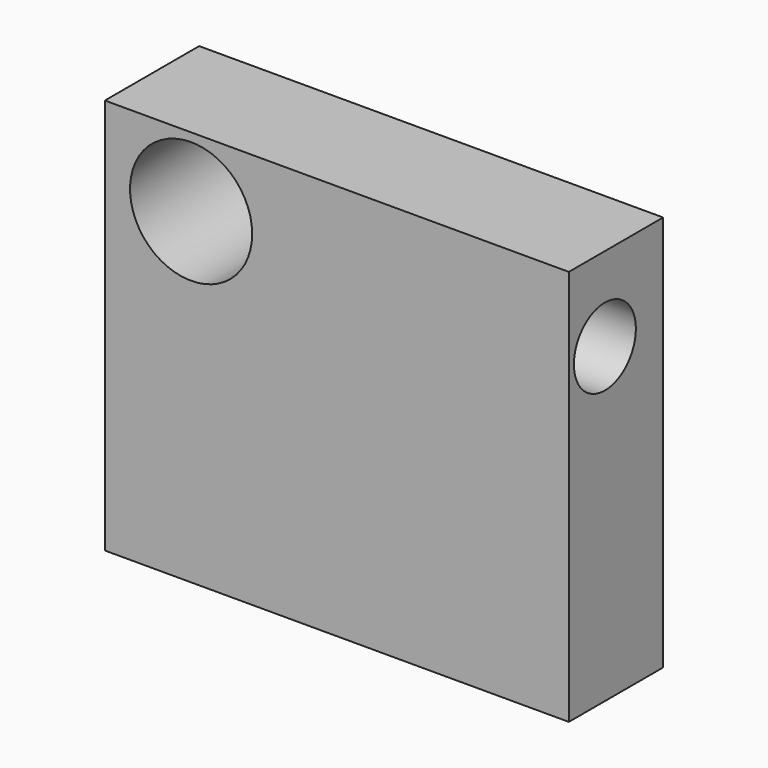
from build123d import *

# Parameters (mm, degrees)
F0_W     = 100
F0_H     = 85.3913038855
F1_DEPTH = 25.4
F2_R     = 13.1600821693
F3_DEPTH = 25.4
F4_R     = 8.3492682179
F5_DEPTH = 25.4
F6_DEPTH = 25.4
F7_DEPTH = 25.4


with BuildPart() as f1:
    # F0 (on Front) → F1 (new body)
    with BuildSketch(Plane.XZ):
        with Locations((50, 42.6956519428)):
            Rectangle(F0_W, F0_H)
    extrude(amount=F1_DEPTH)

    # F2 (on face) → F3 (cut)
    with BuildSketch(Plane.XZ.offset(25.4)):
        with Locations((18.5836926103, 70.3844353557)):
            Circle(F2_R)
    extrude(amount=-F3_DEPTH, mode=Mode.SUBTRACT)

    # F4 (on face) → F5 (cut)
    with BuildSketch(Plane.YZ.offset(100)):
        with Locations((-15.6908016652, 67.2837793827)):
            Circle(F4_R)
    extrude(amount=-F5_DEPTH, mode=Mode.SUBTRACT)

    # F6 (cut): a face of the model
    f6_faces = [f1.faces().sort_by_distance(p)[0] for p in [
        (74.6, -15.6908016652, 67.2837793827),
    ]]
    extrude(f6_faces, amount=-F6_DEPTH, mode=Mode.SUBTRACT)

    # F7 (cut): a face of the model
    f7_faces = [f1.faces().sort_by_distance(p)[0] for p in [
        (49.2, -15.6908016652, 67.2837793827),
    ]]
    extrude(f7_faces, amount=-F7_DEPTH, mode=Mode.SUBTRACT)


solid = f1.part
